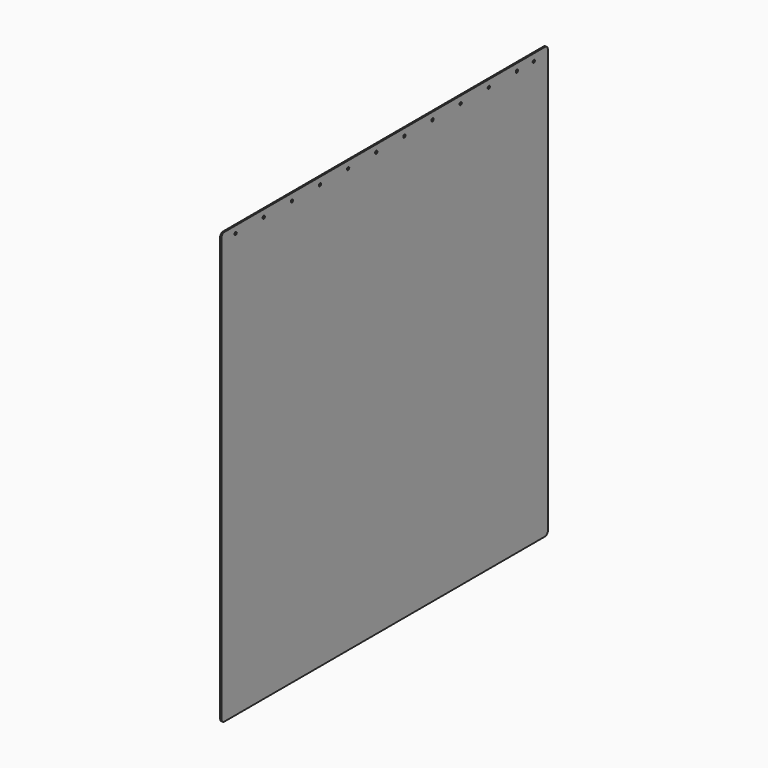
from build123d import *

# Parameters (mm, degrees)
F0_W     = 580
F0_H     = 613
F1_DEPTH = 2
F3_D     = 4
F4_R     = 5


with BuildPart() as f1:
    # F0 (on Right) → F1 (new body)
    with BuildSketch(Plane.YZ):
        with Locations((290, 306.5)):
            Rectangle(F0_W, F0_H)
    extrude(amount=F1_DEPTH)

    # F3 (through all)
    with Locations(Plane.YZ.offset(2)):
        with Locations((25, 603), (75, 603), (125, 603), (175, 603), (225, 603), (325, 603), (275, 603), (375, 603), (425, 603), (475, 603), (525, 603), (555, 603)):
            Hole(F3_D / 2)

    # F4
    f4_edges = [f1.edges().sort_by_distance(p)[0] for p in [
        (1, 0, 613),
        (1, 580, 613),
        (1, 0, 0),
        (1, 580, 0),
    ]]
    fillet(f4_edges, radius=F4_R)


solid = f1.part
